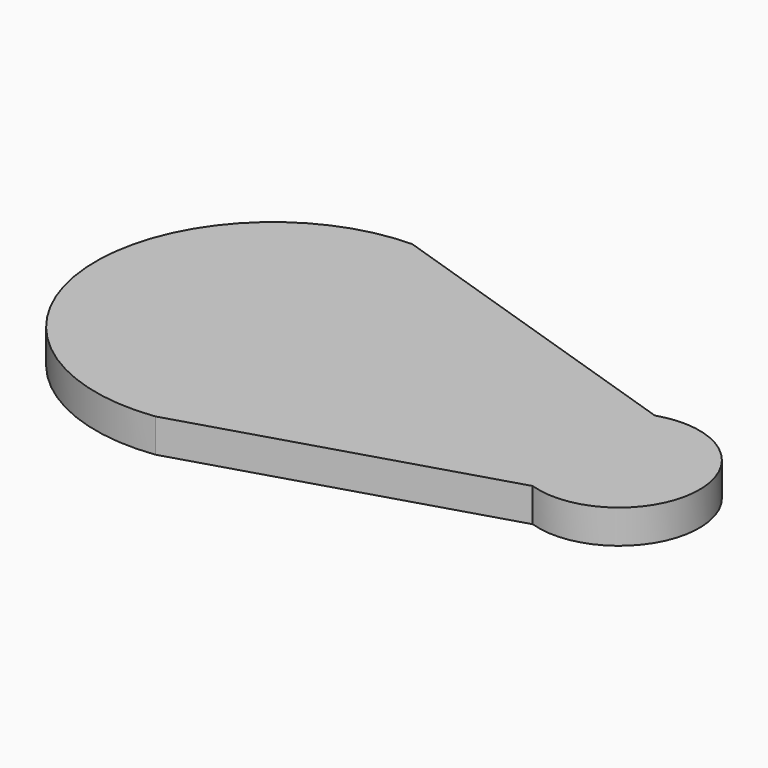
from build123d import *

# Parameters (mm, degrees)
F1_DEPTH = 3.048


with BuildPart() as f1:
    # F0 (on Top) → F1 (new body)
    with BuildSketch(Plane.XY):
        with BuildLine():
            Line((-27.485451, 10.792716), (-29.787896, 42.739153))
            ThreePointArc((-29.787896, 42.739153), (-41.382102, 37.543924), (-45.561652, 25.546117))
            ThreePointArc((-45.561652, 25.546117), (-39.704821, 14.271652), (-27.485451, 10.792716))
        make_face()
        Polygon((0, 32.953762), (-29.787896, 42.739153), (-27.485451, 10.792716), (0, 19.139083), align=None)
        with BuildLine():
            ThreePointArc((0, 19.139083), (9.557615, 26.046422), (0, 32.953762))
            Line((0, 32.953762), (0, 19.139083))
        make_face()
    extrude(amount=F1_DEPTH)


solid = f1.part
